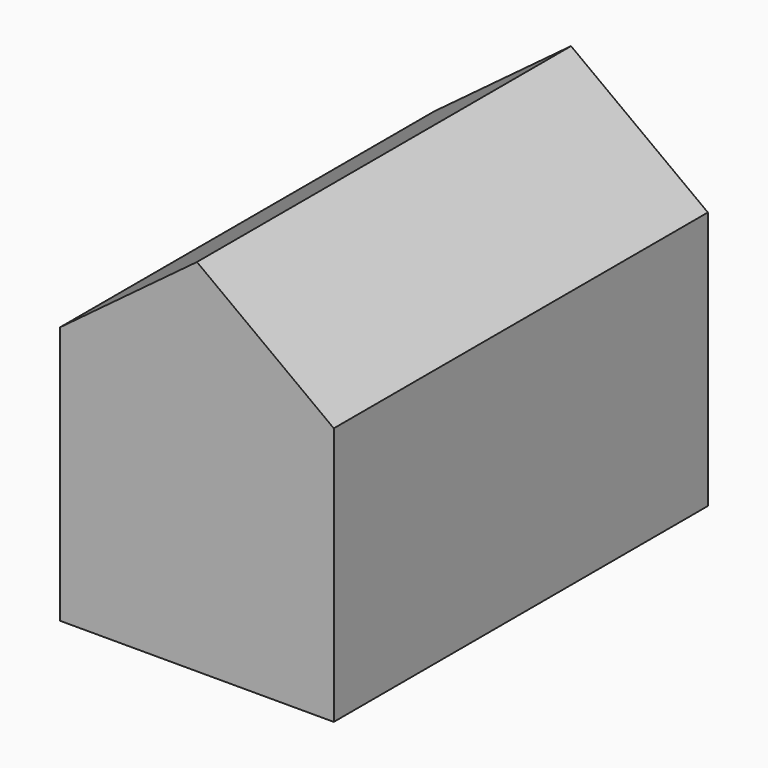
from build123d import *

# Parameters (mm, degrees)
F0_W     = 89.191474
F0_H     = 84.23639
F1_DEPTH = 76.2


with BuildPart() as f1:
    # F0 (on Front) → F1 (new body, symmetric)
    with BuildSketch(Plane.XZ):
        Polygon((0, 75.346395), (-44.595737, 42.118195), (44.595737, 42.118195), align=None)
        Rectangle(F0_W, F0_H)
    extrude(amount=F1_DEPTH, both=True)


solid = f1.part
